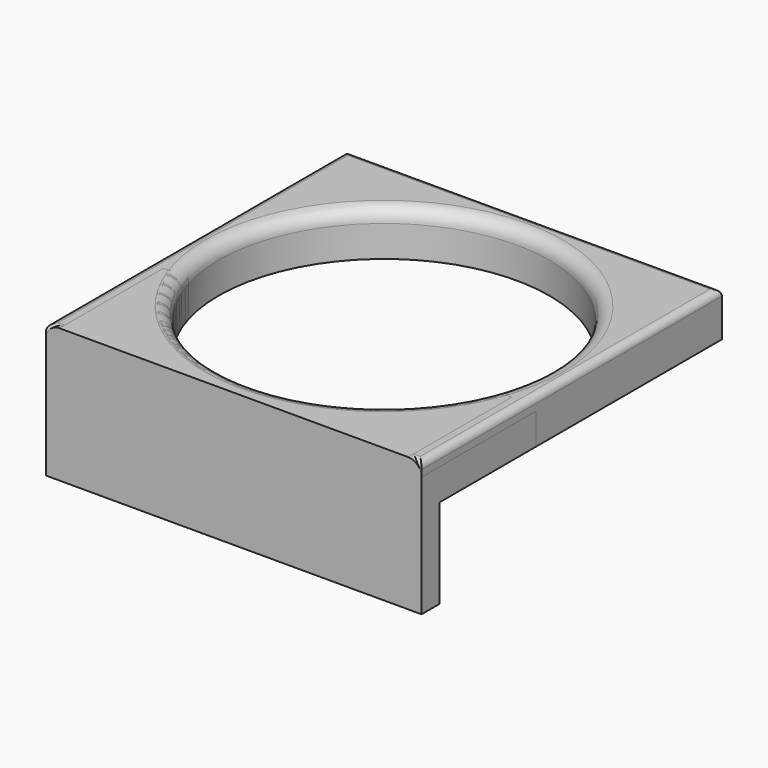
from build123d import *

# Parameters (mm, degrees)
CYLINDER_R        = 37
CYLINDER_DEPTH    = 10
BOX_W             = 84
BOX_H             = 84
BOX_DEPTH         = 10
FILLET_R          = 3
FILLET001_R       = 1.5
BOX003_W          = 84
BOX003_H          = 100
BOX003_DEPTH      = 10
CYLINDER001_R     = 37
CYLINDER001_DEPTH = 10
BOX001_W          = 84
BOX001_H          = 84
BOX001_DEPTH      = 10
FILLET002_R       = 3
BOX002_W          = 84
BOX002_H          = 5
BOX002_DEPTH      = 20


with BuildPart() as cylinder:
    # Cylinder → Cylinder (new body)
    with BuildSketch(Plane(origin=(42, 42, 0), x_dir=(1, 0, 0), z_dir=(0, 0, 1))):
        Circle(CYLINDER_R)
    extrude(amount=CYLINDER_DEPTH)


with BuildPart() as bar_rack_bottle_holder:
    # Box → Box (new body)
    with BuildSketch(Plane.XY):
        with Locations((42, 42)):
            Rectangle(BOX_W, BOX_H)
    extrude(amount=BOX_DEPTH)

    # Cut: cut Cylinder
    add(cylinder.part, mode=Mode.SUBTRACT)

    # Fillet
    fillet_edges = [bar_rack_bottle_holder.edges().sort_by_distance(p)[0] for p in [
        (5, 42, 10),
    ]]
    fillet(fillet_edges, radius=FILLET_R)

    # Fillet001
    fillet001_edges = [bar_rack_bottle_holder.edges().sort_by_distance(p)[0] for p in [
        (0, 42, 10),
        (42, 0, 10),
        (84, 42, 10),
        (42, 84, 10),
    ]]
    fillet(fillet001_edges, radius=FILLET001_R)


with BuildPart() as cube003:
    # Box003 → Box003 (new body)
    with BuildSketch(Plane(origin=(0, 32, 0), x_dir=(1, 0, 0), z_dir=(0, 0, 1))):
        with Locations((42, 50)):
            Rectangle(BOX003_W, BOX003_H)
    extrude(amount=BOX003_DEPTH)


with BuildPart() as cylinder001:
    # Cylinder001 → Cylinder001 (new body)
    with BuildSketch(Plane(origin=(42, 42, 0), x_dir=(1, 0, 0), z_dir=(0, 0, 1))):
        Circle(CYLINDER001_R)
    extrude(amount=CYLINDER001_DEPTH)


with BuildPart() as fillet002:
    # Box001 → Box001 (new body)
    with BuildSketch(Plane.XY):
        with Locations((42, 42)):
            Rectangle(BOX001_W, BOX001_H)
    extrude(amount=BOX001_DEPTH)

    # Cut001: cut Cylinder001
    add(cylinder001.part, mode=Mode.SUBTRACT)

    # Cut002: cut Cube003
    add(cube003.part, mode=Mode.SUBTRACT)

    # Fillet002
    fillet002_edges = [fillet002.edges().sort_by_distance(p)[0] for p in [
        (0, 16, 10),
        (3.188487, 32, 10),
        (42, 5, 10),
        (80.811513, 32, 10),
        (84, 16, 10),
    ]]
    fillet(fillet002_edges, radius=FILLET002_R)


with BuildPart() as bar_rack_bottle_holder_partial:
    # Box002 → Box002 (new body)
    with BuildSketch(Plane.XY.offset(-20)):
        with Locations((42, 2.5)):
            Rectangle(BOX002_W, BOX002_H)
    extrude(amount=BOX002_DEPTH)

    # Fusion: union Fillet002
    add(fillet002.part)


solid = Compound([bar_rack_bottle_holder.part, bar_rack_bottle_holder_partial.part])
